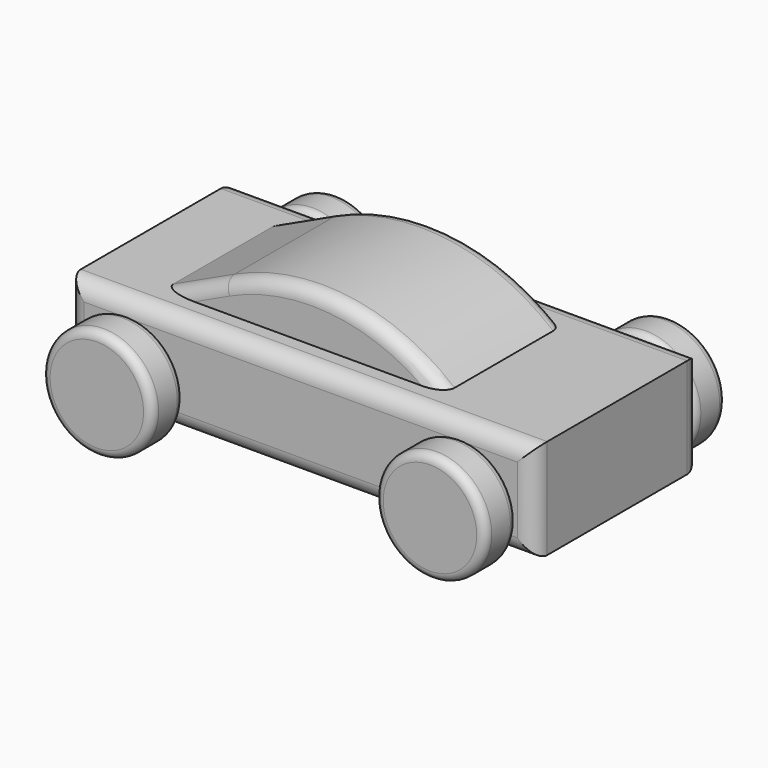
from build123d import *

# Parameters (mm, degrees)
F1_W      = 177.8
F1_H      = 38.1
F2_DEPTH  = 39.6875
F4_R      = 21
F5_DEPTH  = 15.24
F6_R      = 6.35
F7_R      = 3.175
F11_DEPTH = 28.575
F12_R     = 5.08


with BuildPart() as f2:
    # F1 (on Front) → F2 (new body, symmetric)
    with BuildSketch(Plane.XZ):
        Rectangle(F1_W, F1_H)
    extrude(amount=F2_DEPTH, both=True)

    # F6
    f6_edges = [f2.edges().sort_by_distance(p)[0] for p in [
        (0, -39.6875, 19.05),
        (-88.9, -39.6875, 0),
        (0, -39.6875, -19.05),
        (88.9, -39.6875, 0),
        (0, 39.6875, -19.05),
        (88.9, 39.6875, 0),
        (-88.9, 39.6875, 0),
        (0, 39.6875, 19.05),
    ]]
    fillet(f6_edges, radius=F6_R)

    # F10 (on Front) → F11 (join, symmetric)
    with BuildSketch(Plane.XZ):
        with BuildLine():
            Line((-38.1, 29.951975), (-61.47936, 19.05))
            Line((-61.47936, 19.05), (45.72, 19.05))
            ThreePointArc((45.72, 19.05), (5.394201, 36.681142), (-38.1, 29.951975))
        make_face()
    extrude(amount=F11_DEPTH, both=True)

    # F12
    f12_edges = [f2.edges().sort_by_distance(p)[0] for p in [
        (5.394201, -28.575, 36.681142),
        (5.394201, 28.575, 36.681142),
    ]]
    fillet(f12_edges, radius=F12_R)


with BuildPart() as f5:
    # F4 (on offset) → F5 (new body)
    with BuildSketch(Plane.XZ.offset(42.2275)):
        with Locations((63.5, -5.035)):
            Circle(F4_R)
    extrude(amount=F5_DEPTH)

    # F7
    f7_edges = [f5.edges().sort_by_distance(p)[0] for p in [
        (42.5, -57.4675, -5.035),
        (42.5, -42.2275, -5.035),
    ]]
    fillet(f7_edges, radius=F7_R)


with BuildPart() as f8_1:
    # F8: instance of F5
    add(f5.part.mirror(Plane.XZ))


with BuildPart() as f9_1:
    # F9: instance of F5
    add(f5.part.mirror(Plane.YZ))


with BuildPart() as f9_2:
    # F9: instance of F8_1
    add(f8_1.part.mirror(Plane.YZ))


solid = Compound([f2.part, f5.part, f8_1.part, f9_1.part, f9_2.part])
